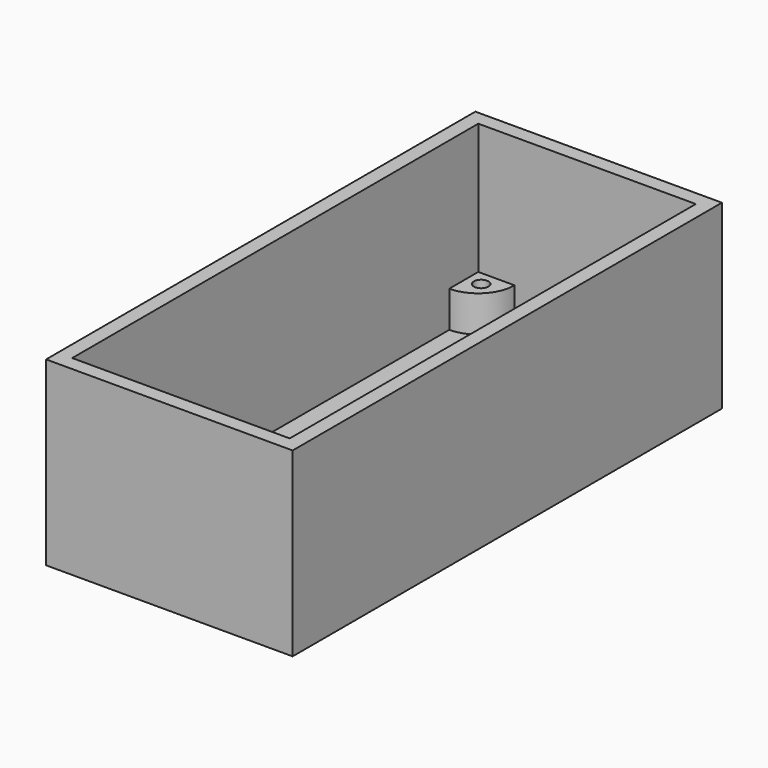
from build123d import *

# Parameters (mm, degrees)
F0_W     = 34
F0_H     = 74
F1_DEPTH = 25
F2_T     = -2
F3_R     = 1
F4_DEPTH = 25
F5_R     = 1
F6_DEPTH = 5
F8_DEPTH = 25


with BuildPart() as f1:
    # F0 (on Top) → F1 (new body)
    with BuildSketch(Plane.XY):
        Rectangle(F0_W, F0_H)
    extrude(amount=F1_DEPTH)

    # F2
    f2_openings = [f1.faces().sort_by_distance(p)[0] for p in [
        (0, 0, 25),
    ]]
    offset(amount=F2_T, openings=f2_openings)

    # F3 (on face) → F4 (cut)
    with BuildSketch(Plane.XY.offset(2)):
        with Locations((13, 33)):
            Circle(F3_R)
        with Locations((-13, 33)):
            Circle(F3_R)
        with Locations((13, -33)):
            Circle(F3_R)
        with Locations((-13, -33)):
            Circle(F3_R)
    extrude(amount=-F4_DEPTH, mode=Mode.SUBTRACT)

    # F5 (on face) → F6 (join)
    with BuildSketch(Plane.XY.offset(2)):
        with BuildLine():
            Line((15, -35), (15, -30))
            ThreePointArc((15, -30), (11.4644660941, -31.4644660941), (10, -35))
            Line((10, -35), (15, -35))
        make_face()
        with Locations((13, -33)):
            Circle(F5_R, mode=Mode.SUBTRACT)
        with BuildLine():
            ThreePointArc((-10, -35), (-11.4644660941, -31.4644660941), (-15, -30))
            Line((-15, -30), (-15, -35))
            Line((-15, -35), (-10, -35))
        make_face()
        with Locations((-13, -33)):
            Circle(F5_R, mode=Mode.SUBTRACT)
        with BuildLine():
            ThreePointArc((-15, 30), (-11.4644660941, 31.4644660941), (-10, 35))
            Line((-10, 35), (-15, 35))
            Line((-15, 35), (-15, 30))
        make_face()
        with Locations((-13, 33)):
            Circle(F5_R, mode=Mode.SUBTRACT)
        with BuildLine():
            Line((15, 35), (10, 35))
            ThreePointArc((10, 35), (11.4644660941, 31.4644660941), (15, 30))
            Line((15, 30), (15, 35))
        make_face()
        with Locations((13, 33)):
            Circle(F5_R, mode=Mode.SUBTRACT)
    extrude(amount=F6_DEPTH)

    # F7 (on face) → F8 (cut)
    with BuildSketch(Plane(origin=(0, 0, 0), x_dir=(1, 0, 0), z_dir=(0, 0, -1))):
        Polygon((4, 22), (4, 30), (-4, 30), (-4, 22), (-12, 22), (-12, 12), (-4, 12), (-4, 4), (4, 4), (4, 12), (12, 12), (12, 22), align=None)
    extrude(amount=-F8_DEPTH, mode=Mode.SUBTRACT)


solid = f1.part
